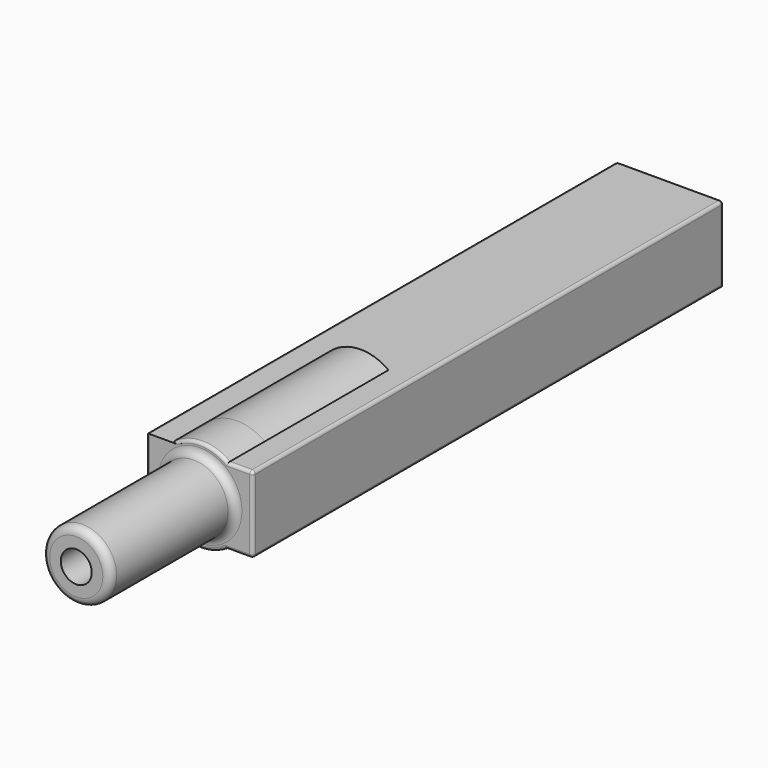
from build123d import *

# Parameters (mm, degrees)
F0_R          = 76.8686111214
F1_DEPTH      = 254
F2_W          = 175.2306818962
F2_H          = 125.6063729525
F3_DEPTH      = 890.52474
F4_R          = 58.9166672022
F3_FACE1_W    = 175.2306818962
F3_FACE1_H    = 125.6063729525
F5_DEPTH      = 76.2
F6_R          = 56.3193405809
F7_DEPTH      = 254
F7_DEPTH_BACK = 25.4
F8_R          = 12.7
F9_R          = 12.7
F11_D         = 50.8
F12_R         = 5.08


with BuildPart() as f1:
    # F0 (on Front) → F1 (new body)
    with BuildSketch(Plane.XZ):
        Circle(F0_R)
    extrude(amount=F1_DEPTH)

    # F2 (on face) → F3 (join)
    with BuildSketch(Plane.XZ.offset(254)):
        with Locations((-0.7015764713, -0.9209215641)):
            Rectangle(F2_W, F2_H)
        with BuildLine():
            Line((86.9137644768, 61.8822649121), (45.6000950117, 61.8822649121))
            ThreePointArc((45.6000950117, 61.8822649121), (68.6075773741, 34.6667521206), (76.8686111214, 0))
            ThreePointArc((76.8686111214, 0), (67.8721550854, -36.0853701628), (42.9886197754, -63.7241080403))
            Line((42.9886197754, -63.7241080403), (86.9137644768, -63.7241080403))
            Line((86.9137644768, -63.7241080403), (86.9137644768, 61.8822649121))
        make_face()
    extrude(amount=-F3_DEPTH)

    # F4 (on face) + F3_face (on face) + F3_face1 (on face) → F5 (join)
    with BuildSketch(Plane.XZ.offset(254)):
        Circle(F4_R)
    with BuildSketch(Plane(origin=(-0.6513319222, -254, -0.4226097365), x_dir=(1, 0, 0), z_dir=(0, -1, 0))):
        with BuildLine():
            Line((43.6399516976, -63.3014983039), (87.565096399, -63.3014983039))
            Line((87.565096399, -63.3014983039), (87.565096399, 62.3048746486))
            Line((87.565096399, 62.3048746486), (46.2514269339, 62.3048746486))
            ThreePointArc((46.2514269339, 62.3048746486), (0.6513319222, 77.2912208578), (-44.9487630895, 62.3048746486))
            Line((-44.9487630895, 62.3048746486), (-87.6655854972, 62.3048746486))
            Line((-87.6655854972, 62.3048746486), (-87.6655854972, -63.3014983039))
            Line((-87.6655854972, -63.3014983039), (-42.3372878532, -63.3014983039))
            ThreePointArc((-42.3372878532, -63.3014983039), (0.6513319222, -76.4460013849), (43.6399516976, -63.3014983039))
        make_face()
    with BuildSketch(Plane(origin=(-0.7015764713, 636.52474, -0.9209215641), x_dir=(1, 0, 0), z_dir=(0, 1, 0))):
        Rectangle(F3_FACE1_W, F3_FACE1_H)
    extrude(amount=F5_DEPTH, dir=(0, -1, 0))

    # F6 (on face) → F7 (join, two sides)
    with BuildSketch(Plane.XZ.offset(330.2)) as f7_sk:
        Circle(F6_R)
    extrude(amount=F7_DEPTH)
    extrude(f7_sk.sketch, amount=-F7_DEPTH_BACK)

    # F8
    f8_edges = [f1.edges().sort_by_distance(p)[0] for p in [
        (-56.319341, -330.2, 0),
    ]]
    fillet(f8_edges, radius=F8_R)

    # F9
    f9_edges = [f1.edges().sort_by_distance(p)[0] for p in [
        (-56.319341, -584.2, 0),
    ]]
    fillet(f9_edges, radius=F9_R)

    # F11 (through all)
    with Locations(Plane.XZ.offset(584.2)):
        with Locations((0, 0)):
            Hole(F11_D / 2)

    # F12
    f12_edges = [f1.edges().sort_by_distance(p)[0] for p in [
        (86.913764, 153.16237, 61.882265),
        (-88.316917, 153.16237, 61.882265),
        (86.913764, 153.16237, -63.724108),
        (86.913764, -330.2, -0.920922),
        (-88.316917, -330.2, -0.920922),
        (86.913764, 636.52474, -0.920922),
        (-0.701576, 636.52474, 61.882265),
        (-88.316917, 153.16237, -63.724108),
        (-65.652769, -330.2, -63.724108),
        (64.951192, -330.2, -63.724108),
        (0, -330.2, 76.868611),
        (0, -330.2, -76.868611),
        (66.25693, -330.2, 61.882265),
        (-88.316917, 636.52474, -0.920922),
    ]]
    fillet(f12_edges, radius=F12_R)


solid = f1.part
